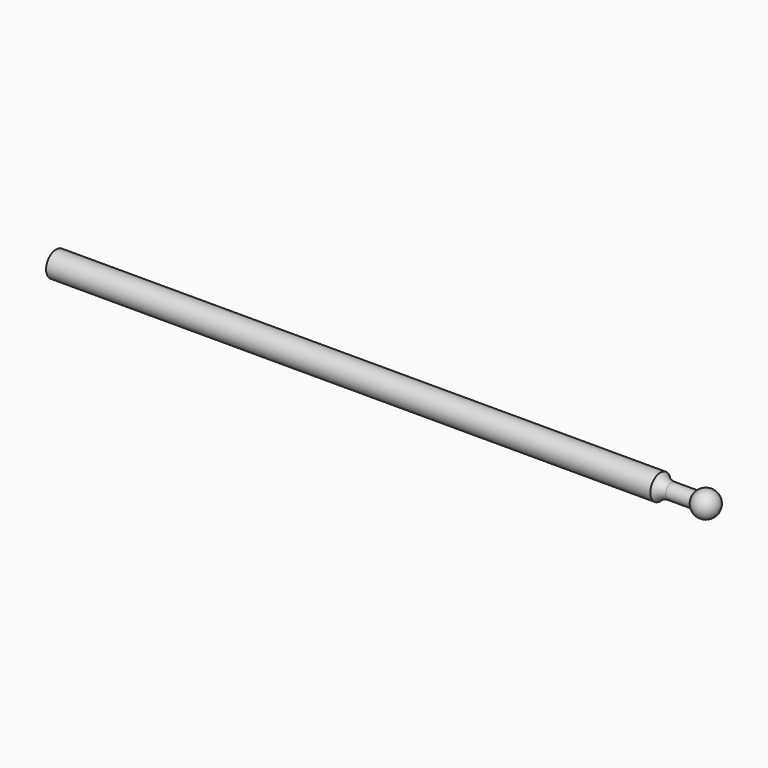
from build123d import *


with BuildPart() as f1:
    # F0 (on Top) → F1 (revolve)
    with BuildSketch(Plane.XY):
        with BuildLine():
            Line((-0.098042, 1.25), (-60, 1.25))
            Line((-60, 1.25), (-60, 0))
            Line((-60, 0), (5.651958, 0))
            ThreePointArc((5.651958, 0), (4.797243, 1.185854), (3.401958, 0.75))
            Line((3.401958, 0.75), (1.019992, 0.75))
            ThreePointArc((1.019992, 0.75), (0.40762, 0.880694), (-0.098042, 1.25))
        make_face()
    revolve(axis=Axis((-18.144794, 0, 0), (1, 0, 0)))


solid = f1.part
